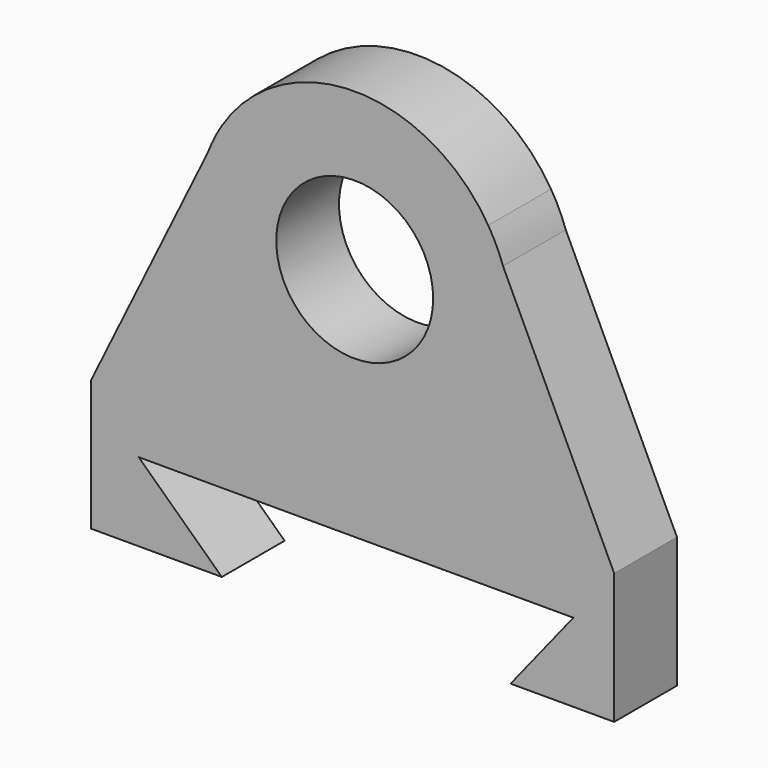
from build123d import *

# Parameters (mm, degrees)
F0_R     = 30
F1_DEPTH = 25
F2_DEPTH = 30


with BuildPart() as f1:
    # F0 (on Front) → F1 (new body)
    with BuildSketch(Plane.XZ):
        with BuildLine():
            Line((-56.185745, 83.036698), (-100.799982, -8.014716))
            Line((-100.799982, -8.014716), (99.200018, -8.014716))
            Line((99.200018, -8.014716), (56.705809, 81.592712))
            ThreePointArc((56.705809, 81.592712), (59.170721, 71.926398), (60, 61.985284))
            ThreePointArc((60, 61.985284), (-10.697086, 2.946548), (-56.185745, 83.036698))
        make_face()
        Polygon((99.200018, -8.014716), (-100.799982, -8.014716), (-100.799982, -58.014716), (-50.799982, -58.014716), (-82.59998, -28.014716), (83.600022, -28.014716), (59.600013, -58.014716), (99.200018, -58.014716), align=None)
        with BuildLine():
            Line((-51.065717, 93.48596), (-56.185745, 83.036698))
            ThreePointArc((-56.185745, 83.036698), (-10.697086, 2.946548), (60, 61.985284))
            ThreePointArc((60, 61.985284), (59.170721, 71.926398), (56.705809, 81.592712))
            Line((56.705809, 81.592712), (51.065717, 93.48596))
            ThreePointArc((51.065717, 93.48596), (0, 121.985284), (-51.065717, 93.48596))
        make_face()
        with Locations((0, 61.985284)):
            Circle(F0_R, mode=Mode.SUBTRACT)
        with BuildLine():
            ThreePointArc((-51.065717, 93.48596), (-53.879642, 88.385743), (-56.185745, 83.036698))
            Line((-56.185745, 83.036698), (-51.065717, 93.48596))
        make_face()
        with BuildLine():
            Line((51.065717, 93.48596), (56.705809, 81.592712))
            ThreePointArc((56.705809, 81.592712), (54.212893, 87.69447), (51.065717, 93.48596))
        make_face()
    extrude(amount=F1_DEPTH)

    # F0 (on Front) → F2 (join)
    with BuildSketch(Plane.XZ):
        with BuildLine():
            Line((-56.185745, 83.036698), (-100.799982, -8.014716))
            Line((-100.799982, -8.014716), (99.200018, -8.014716))
            Line((99.200018, -8.014716), (56.705809, 81.592712))
            ThreePointArc((56.705809, 81.592712), (59.170721, 71.926398), (60, 61.985284))
            ThreePointArc((60, 61.985284), (-10.697086, 2.946548), (-56.185745, 83.036698))
        make_face()
        Polygon((99.200018, -8.014716), (-100.799982, -8.014716), (-100.799982, -58.014716), (-50.799982, -58.014716), (-82.59998, -28.014716), (83.600022, -28.014716), (59.600013, -58.014716), (99.200018, -58.014716), align=None)
        with BuildLine():
            Line((-51.065717, 93.48596), (-56.185745, 83.036698))
            ThreePointArc((-56.185745, 83.036698), (-10.697086, 2.946548), (60, 61.985284))
            ThreePointArc((60, 61.985284), (59.170721, 71.926398), (56.705809, 81.592712))
            Line((56.705809, 81.592712), (51.065717, 93.48596))
            ThreePointArc((51.065717, 93.48596), (0, 121.985284), (-51.065717, 93.48596))
        make_face()
        with Locations((0, 61.985284)):
            Circle(F0_R, mode=Mode.SUBTRACT)
        with BuildLine():
            ThreePointArc((-51.065717, 93.48596), (-53.879642, 88.385743), (-56.185745, 83.036698))
            Line((-56.185745, 83.036698), (-51.065717, 93.48596))
        make_face()
        with BuildLine():
            Line((51.065717, 93.48596), (56.705809, 81.592712))
            ThreePointArc((56.705809, 81.592712), (54.212893, 87.69447), (51.065717, 93.48596))
        make_face()
    extrude(amount=F2_DEPTH)


solid = f1.part
